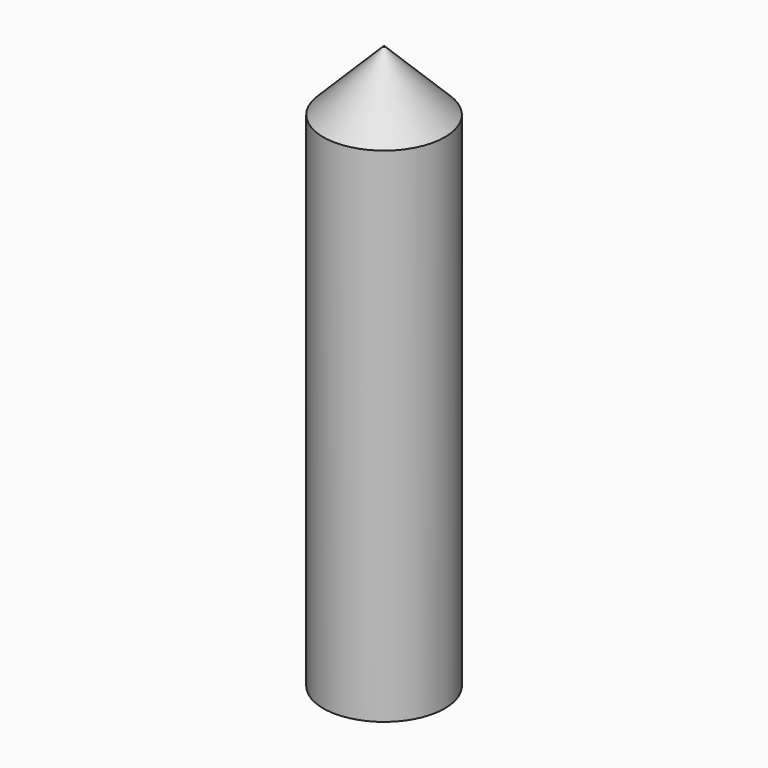
from build123d import *

# Parameters (mm, degrees)
F0_R     = 29.3168750736
F1_DEPTH = 68.326
F2_DEPTH = 203.2
F3_SIZE  = 28.956


with BuildPart() as f1:
    # F0 (on Top) → F1 (new body)
    with BuildSketch(Plane.XY):
        Circle(F0_R)
    extrude(amount=F1_DEPTH)

    # F2 (add): a face of the model
    f2_faces = [f1.faces().sort_by_distance(p)[0] for p in [
        (0, 0, 68.326),
    ]]
    extrude(f2_faces, amount=F2_DEPTH)

    # F3
    f3_edges = [f1.edges().sort_by_distance(p)[0] for p in [
        (-29.316875, 0, 271.526),
    ]]
    chamfer(f3_edges, length=F3_SIZE)


solid = f1.part
